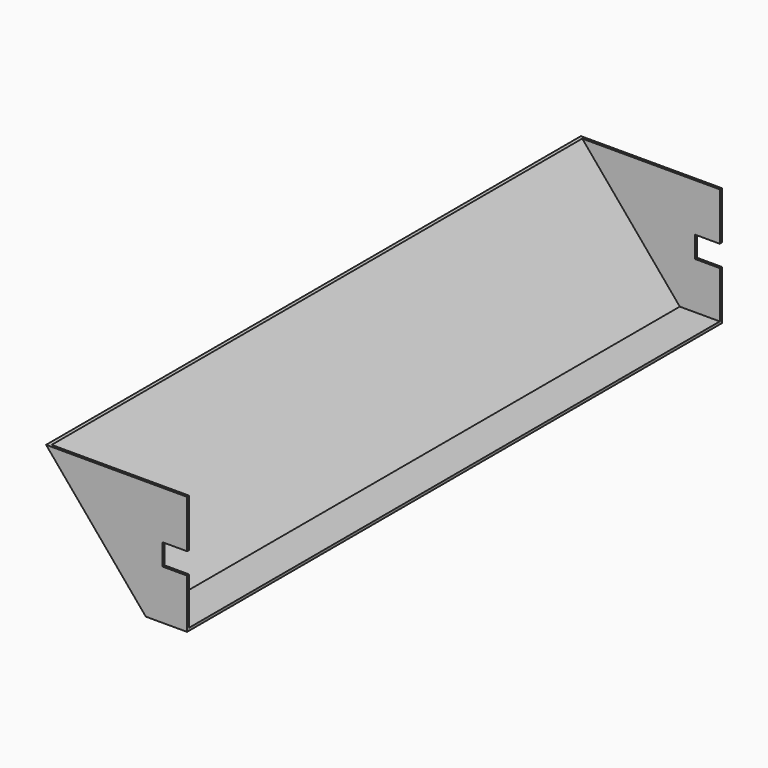
from build123d import *

# Parameters (mm, degrees)
F1_DEPTH = 405
F4_DEPTH = 401.8


with BuildPart() as f1:
    # F0 (on Front) → F1 (new body)
    with BuildSketch(Plane.XZ):
        Polygon((-60.4151734448, 72), (0, 0), (25, 0), (25, 30), (10, 30), (10, 43), (25, 43), (25, 72), align=None)
    extrude(amount=F1_DEPTH)

    # F3 (on offset) → F4 (cut)
    with BuildSketch(Plane.XZ.offset(403.4)):
        Polygon((29.3578643668, 73.0284601755), (-59.1895023358, 73.0284601755), (0.746092253, 1.6), (25, 1.6), align=None)
    extrude(amount=-F4_DEPTH, mode=Mode.SUBTRACT)


solid = f1.part
